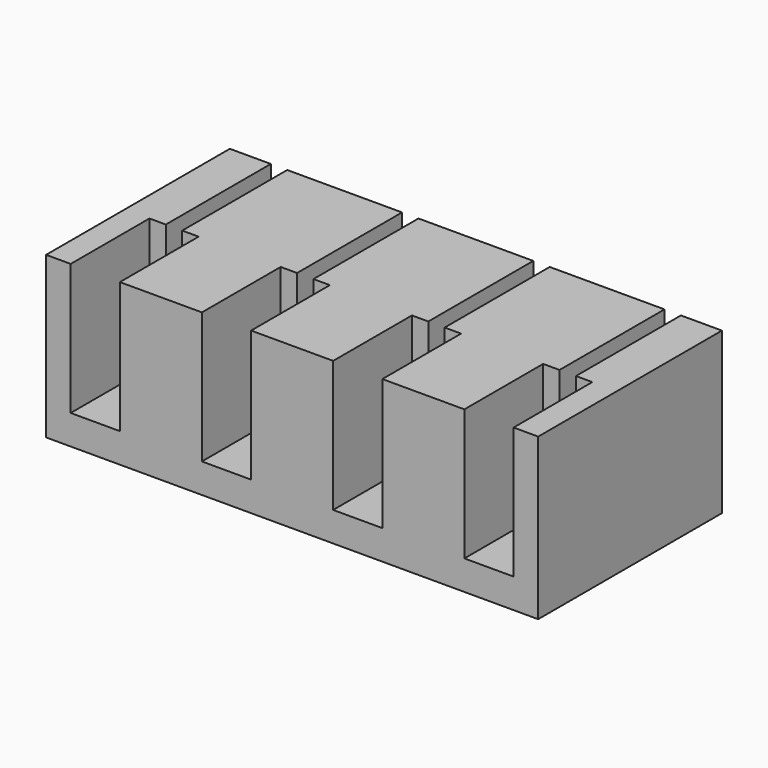
from build123d import *

# Parameters (mm, degrees)
F0_W     = 30
F0_H     = 14
F1_DEPTH = 9.8
F2_W     = 1
F2_H     = 14
F4_DEPTH = 8
F3_W     = 3
F3_H     = 6
F5_DEPTH = 8


with BuildPart() as f1:
    # F0 (on Top) → F1 (new body)
    with BuildSketch(Plane.XY):
        with Locations((-0.472123, 1.153064)):
            Rectangle(F0_W, F0_H)
    extrude(amount=F1_DEPTH)

    # F2 (on face) → F4 (cut)
    with BuildSketch(Plane.XY.offset(9.8)):
        with Locations((-12.472123, 1.153064)):
            Rectangle(F2_W, F2_H)
        with Locations((-4.472123, 1.153064)):
            Rectangle(F2_W, F2_H)
        with Locations((3.527877, 1.153064)):
            Rectangle(F2_W, F2_H)
        with Locations((11.527877, 1.153064)):
            Rectangle(F2_W, F2_H)
    extrude(amount=-F4_DEPTH, mode=Mode.SUBTRACT)

    # F3 (on face) → F5 (cut)
    with BuildSketch(Plane.XY.offset(9.8)):
        with Locations((-12.472123, -2.846936)):
            Rectangle(F3_W, F3_H)
        with Locations((-4.472123, -2.846936)):
            Rectangle(F3_W, F3_H)
        with Locations((3.527877, -2.846936)):
            Rectangle(F3_W, F3_H)
        with Locations((11.527877, -2.846936)):
            Rectangle(F3_W, F3_H)
    extrude(amount=-F5_DEPTH, mode=Mode.SUBTRACT)


solid = f1.part
